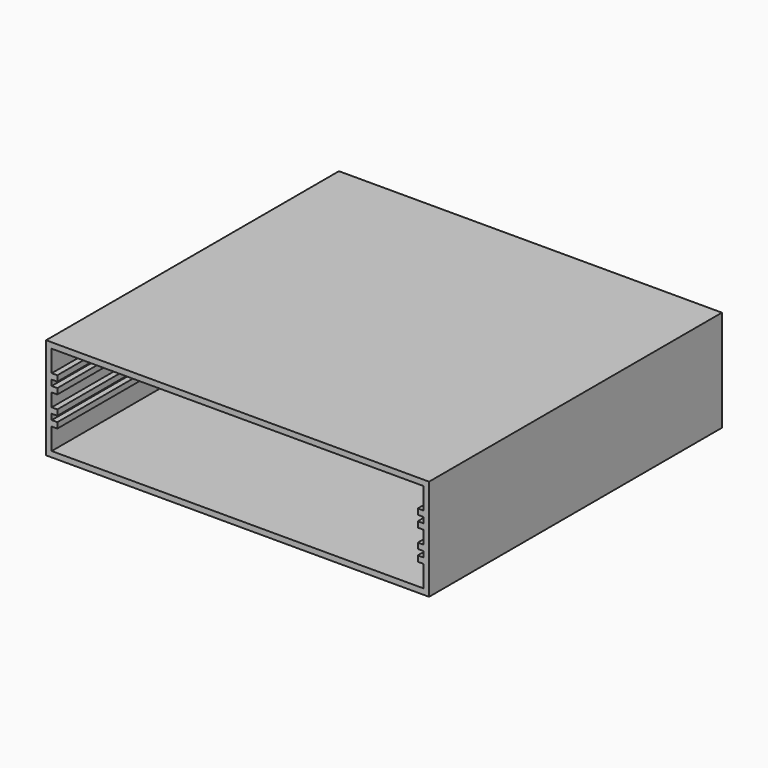
from build123d import *

# Parameters (mm, degrees)
F0_W     = 215.9
F0_H     = 206.375
F1_DEPTH = 57.15
F2_T     = -3.175
F3_W     = 203.2
F3_H     = 3.175
F4_DEPTH = 3.175
F5_W     = 203.2
F5_H     = 3.175
F6_DEPTH = 3.175


with BuildPart() as f1:
    # F0 (on Top) → F1 (new body)
    with BuildSketch(Plane.XY):
        Rectangle(F0_W, F0_H)
    extrude(amount=F1_DEPTH)

    # F2
    f2_openings = [f1.faces().sort_by_distance(p)[0] for p in [
        (0, -103.1875, 28.575),
    ]]
    offset(amount=F2_T, openings=f2_openings)

    # F3 (on face) → F4 (join)
    with BuildSketch(Plane.YZ.offset(-104.775)):
        with Locations((-1.5875, 40.2166666663)):
            Rectangle(F3_W, F3_H)
        with Locations((-1.5875, 33.8666666663)):
            Rectangle(F3_W, F3_H)
        with Locations((-1.5875, 23.2833333337)):
            Rectangle(F3_W, F3_H)
        with Locations((-1.5875, 16.9333333337)):
            Rectangle(F3_W, F3_H)
    extrude(amount=F4_DEPTH)

    # F5 (on face) → F6 (join)
    with BuildSketch(Plane(origin=(104.775, 0, 0), x_dir=(0, -1, 0), z_dir=(-1, 0, 0))):
        with Locations((1.5875, 40.2166666663)):
            Rectangle(F5_W, F5_H)
        with Locations((1.5875, 33.8666666663)):
            Rectangle(F5_W, F5_H)
        with Locations((1.5875, 23.2833333337)):
            Rectangle(F5_W, F5_H)
        with Locations((1.5875, 16.9333333337)):
            Rectangle(F5_W, F5_H)
    extrude(amount=F6_DEPTH)


solid = f1.part
